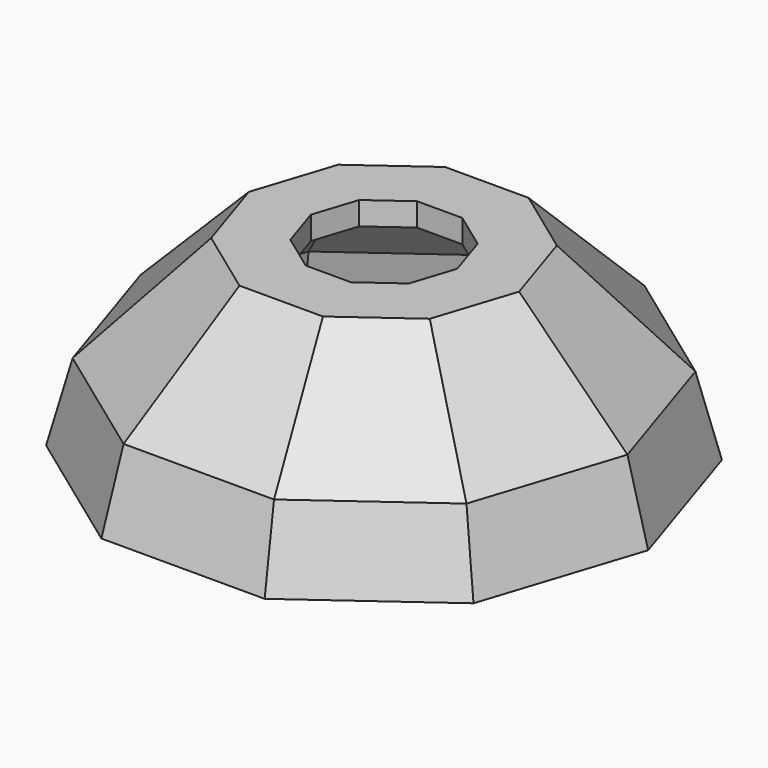
from build123d import *


with BuildPart() as f2:
    # F2: sweep along a path in F0
    with BuildLine(Plane.XY) as f2_path:
        Line((43.8491681264, 31.8582854615), (54.2005525611, 0))
        Line((54.2005525611, 0), (43.8491681264, -31.8582854615))
        Line((43.8491681264, -31.8582854615), (16.7488918459, -51.5477887))
        Line((16.7488918459, -51.5477887), (-16.7488918459, -51.5477887))
        Line((-16.7488918459, -51.5477887), (-43.8491681264, -31.8582854615))
        Line((-43.8491681264, -31.8582854615), (-54.2005525611, 0))
        Line((-54.2005525611, 0), (-43.8491681264, 31.8582854615))
        Line((-43.8491681264, 31.8582854615), (-16.7488918459, 51.5477887))
        Line((-16.7488918459, 51.5477887), (16.7488918459, 51.5477887))
        Line((16.7488918459, 51.5477887), (43.8491681264, 31.8582854615))
    # F1 (on Front) → F2 (sweep)
    with BuildSketch(Plane.XZ):
        Polygon((45.676918445, 13.4097485954), (49.2700497519, 0), (54.2005525611, 0), (49.9468591312, 15.875), (27.7218591312, 38.1), (15.0218591312, 38.1), (15.0218591312, 33.3375), (25.7491670404, 33.3375), align=None)
    sweep(path=f2_path.line, transition=Transition.RIGHT)


solid = f2.part
